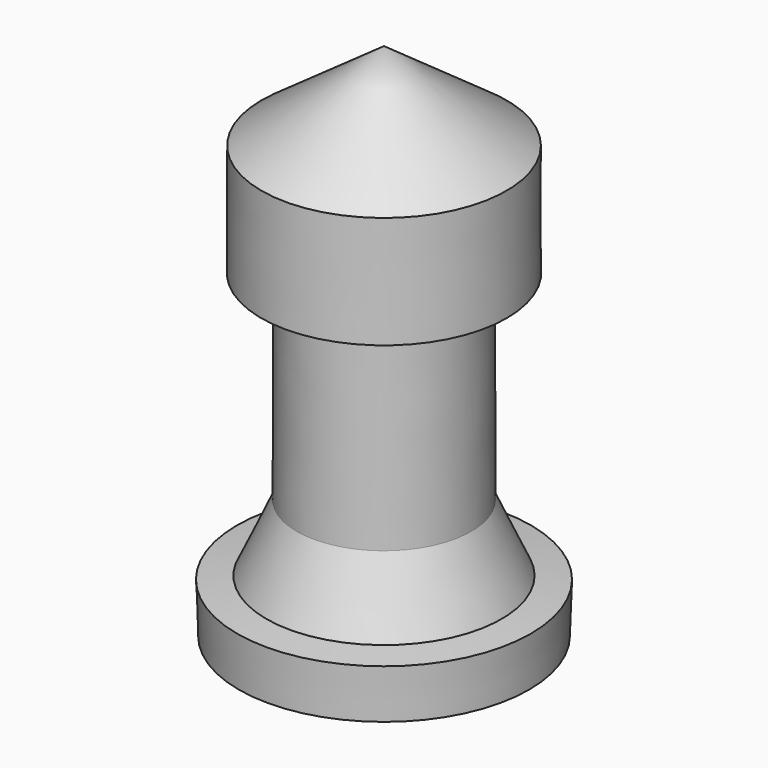
from build123d import *


with BuildPart() as f1:
    # F0 (on Front) → F1 (revolve)
    with BuildSketch(Plane.XZ):
        Polygon((0, 34.8173603415), (0, 49.7604347765), (-20.9203045815, 34.8173603415), align=None)
        Polygon((0, 34.8173603415), (-20.9203045815, 34.8173603415), (-20.9630057216, 15.6858414412), (-14.7989457213, 15.6720833914), (0, 15.6390524618), align=None)
        Polygon((0, -38.0559399025), (0, 15.6390524618), (-14.7989457213, 15.6720833914), (-14.8749074655, -18.3612829992), (-20.0824216008, -29.8110116273), (-25.0723995268, -30.3980689496), (-24.7788708657, -38.9103852212), align=None)
    revolve(axis=Axis((0, 0, -11.2084437204), (0, 0, 1)))


solid = f1.part
